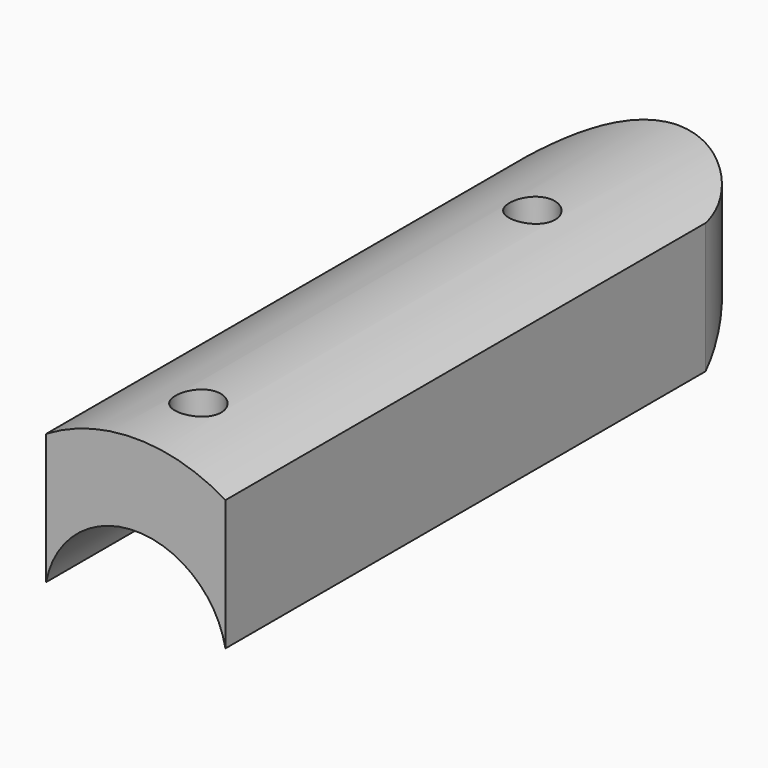
from build123d import *

# Parameters (mm, degrees)
F1_DEPTH = 330.2
F3_DEPTH = 84.1385
F4_R     = 11.1125
F5_DEPTH = 84.1385


with BuildPart() as f1:
    # F0 (on Front) → F1 (new body)
    with BuildSketch(Plane.XZ):
        with BuildLine():
            ThreePointArc((-43.65625, 8.362675), (0, 44.45), (43.65625, 8.362675))
            Line((43.65625, 8.362675), (43.65625, 71.925314))
            ThreePointArc((43.65625, 71.925314), (0, 84.1375), (-43.65625, 71.925314))
            Line((-43.65625, 71.925314), (-43.65625, 8.362675))
        make_face()
    extrude(amount=-F1_DEPTH)

    # F2 (on Top) → F3 (cut, through all)
    with BuildSketch(Plane.XY):
        with BuildLine():
            Line((-43.65625, 330.2), (-43.65625, 292.1))
            ThreePointArc((-43.65625, 292.1), (-28.971875, 319.335547), (0, 330.2))
            Line((0, 330.2), (-43.65625, 330.2))
        make_face()
        with BuildLine():
            Line((43.65625, 330.2), (0, 330.2))
            ThreePointArc((0, 330.2), (28.971875, 319.335547), (43.65625, 292.1))
            Line((43.65625, 292.1), (43.65625, 330.2))
        make_face()
    extrude(amount=F3_DEPTH, mode=Mode.SUBTRACT)

    # F4 (on Top) → F5 (cut, through all)
    with BuildSketch(Plane.XY):
        with Locations((0, 241.3)):
            Circle(F4_R)
        with Locations((0, 38.1)):
            Circle(F4_R)
    extrude(amount=F5_DEPTH, mode=Mode.SUBTRACT)


solid = f1.part
